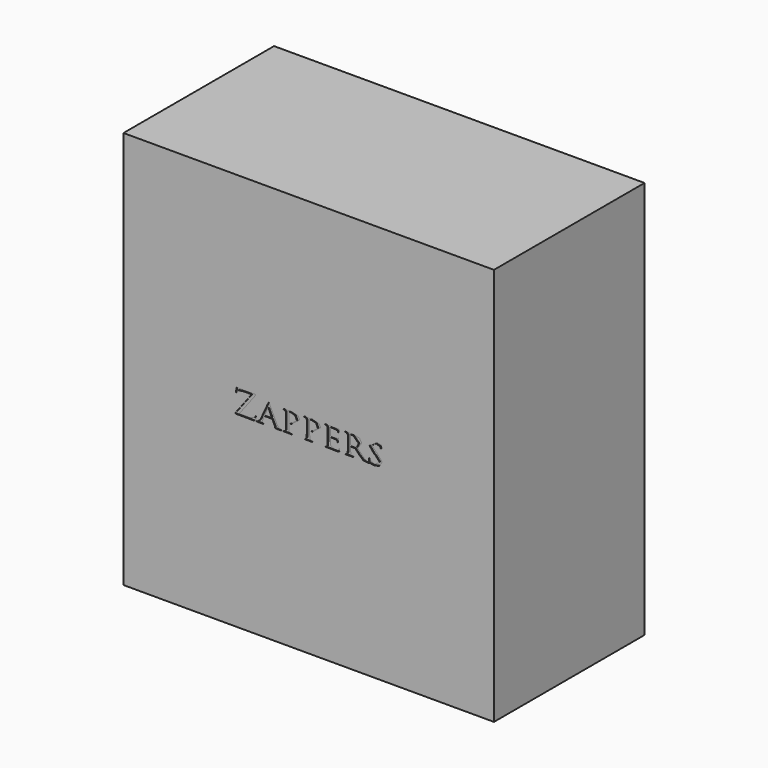
from build123d import *

# Parameters (mm, degrees)
F0_W     = 249.9915063381
F0_H     = 268.5476541519
F1_DEPTH = 63.5
F3_DEPTH = 0.508


with BuildPart() as f1:
    # F0 (on Front) → F1 (new body, symmetric)
    with BuildSketch(Plane.XZ):
        Rectangle(F0_W, F0_H)
    extrude(amount=F1_DEPTH, both=True)

    # F2 (on face) → F3 (cut)
    with BuildSketch(Plane.XZ.offset(63.5)):
        Polygon((-36.2409232, -5.9713876), (-40.137842, -7.0018148), (-46.8468202, -7.0018148), (-35.7970328, 7.5061826), (-35.6983284, 7.7583538), (-36.1914948, 7.9266542), (-43.073066, 7.9266542), (-47.3646246, 7.989697), (-48.4005636, 8.1369662), (-48.6472484, 7.737348), (-49.1405672, 4.9409604), (-48.9926122, 4.6676056), (-48.7213148, 5.0460402), (-47.315374, 6.7070986), (-43.7636412, 7.1275702), (-38.4113532, 7.1275702), (-49.2392716, -7.0858634), (-49.584483, -7.6746354), (-49.1405672, -7.842758), (-36.5614966, -7.9478378), (-35.8216708, -7.4011028), (-35.3283266, -4.9833276), (-35.5255576, -4.4996354), (-35.7476044, -4.8362108), align=None)
        Polygon((-26.943812, 5.950204), (-27.4617942, 5.2563522), (-32.5674228, -5.9293506), (-34.3924636, -7.5695556), (-35.0337628, -7.6115926), (-35.2311716, -7.758684), (-34.8118938, -7.9058008), (-32.6166988, -7.842758), (-30.6681378, -7.9058008), (-30.3475898, -7.758684), (-30.5694334, -7.6115926), (-30.7668422, -7.6115926), (-31.5068458, -7.1279004), (-31.18612, -5.9293506), (-29.95295, -3.0699202), (-29.7309032, -2.9228034), (-24.723979, -2.9228034), (-24.526748, -3.0278832), (-22.578187, -7.1279004), (-22.775418, -7.6115926), (-22.9233984, -7.7376782), (-22.1589346, -7.8637638), (-18.7303664, -7.9058008), (-18.2372, -7.758684), (-18.5084974, -7.6115926), (-19.3716656, -7.5065128), (-21.2215222, -5.5510684), (-26.4258552, 5.2983892), align=None)
        Polygon((-24.9706384, -2.0604988), (-25.0445524, -2.18694), (-29.4349678, -2.18694), (-29.5088818, -2.0604988), (-27.4864322, 2.8384246), (-27.1164304, 2.8384246), align=None, mode=Mode.SUBTRACT)
        Polygon((-15.4268678, 4.2891456), (-15.3776172, 0.4415028), (-15.3776172, -2.7123136), (-15.5009342, -6.5811654), (-16.068167, -7.5275186), (-16.7341042, -7.6115926), (-16.906875, -7.758684), (-16.5615112, -7.9058008), (-14.4157446, -7.842758), (-11.702542, -7.9058008), (-11.3571782, -7.758684), (-11.529949, -7.6115926), (-12.4918216, -7.5275186), (-13.3551676, -6.5811654), (-13.4536942, -2.7123136), (-13.4536942, 4.5625258), (-13.2811012, 4.8989234), (-12.0725438, 5.0250344), (-9.1374976, 4.16306), (-7.9041498, 1.4507464), (-11.9245888, -1.4297152), (-12.4918216, -1.6191992), (-12.2697748, -1.7873218), (-11.6532914, -1.8083276), (-6.0543186, 2.4599646), (-7.1395082, 4.6045374), (-11.2832896, 5.613781), (-14.3662908, 5.5717694), (-16.8820846, 5.613781), (-17.2274484, 5.4666896), (-17.0548554, 5.319395), (-16.3148518, 5.2773834), align=None)
        Polygon((-1.3198856, 4.2891456), (-1.270635, 0.4415028), (-1.270635, -2.7123136), (-1.393952, -6.5811654), (-1.9611848, -7.5275186), (-2.627122, -7.6115926), (-2.7999182, -7.758684), (-2.454529, -7.9058008), (-0.3087624, -7.842758), (2.4045926, -7.9058008), (2.749804, -7.758684), (2.577211, -7.6115926), (1.6153384, -7.5275186), (0.7519924, -6.5811654), (0.6534658, -2.7123136), (0.6534658, 4.5625258), (0.8260588, 4.8989234), (2.0345908, 5.0250344), (4.9694846, 4.16306), (6.202807, 1.4507464), (2.1823934, -1.4297152), (1.6153384, -1.6191992), (1.837182, -1.7873218), (2.4538686, -1.8083276), (8.0524858, 2.4599646), (6.9672962, 4.6045374), (2.8238704, 5.613781), (-0.2591562, 5.5717694), (-2.7751024, 5.613781), (-3.1204662, 5.4666896), (-2.9478732, 5.319395), (-2.2078696, 5.2773834), align=None)
        Polygon((12.7874268, 4.2891456), (12.8367028, 0.4415028), (12.8367028, -2.7123136), (12.7133604, -6.5811654), (12.1459498, -7.5275186), (11.4800126, -7.6115926), (11.3074196, -7.758684), (11.6529612, -7.9058008), (12.9107692, -7.8637638), (13.847826, -7.842758), (15.6485844, -7.884795), (19.4223386, -7.9478378), (20.6308706, -7.4851514), (20.926806, -5.761228), (20.7786732, -5.4876954), (20.5568042, -5.761228), (19.5701412, -7.0018148), (17.3997112, -7.1909432), (14.8100542, -5.761228), (14.8100542, -2.7123136), (14.8100542, -1.2195556), (14.9578314, -1.09347), (18.2382668, -1.1775186), (19.3482722, -1.7242536), (19.4467988, -2.3130256), (19.5949316, -2.4811482), (19.7919848, -2.144903), (19.890867, -0.9883902), (20.06346, -0.0001778), (19.940143, 0.1471168), (19.6193918, -0.0840486), (18.5589926, -0.3365754), (14.933041, -0.3786124), (14.8100542, -0.189484), (14.8100542, 4.6676056), (14.933041, 4.8569118), (18.0656484, 4.793869), (19.6193918, 4.2471086), (19.7427342, 3.616325), (19.9153272, 3.3849818), (20.112736, 3.574288), (20.2360784, 4.7516542), (20.4086714, 5.5927752), (20.3101448, 5.7608978), (20.0142094, 5.6768238), (19.027521, 5.5717694), (13.847826, 5.5717694), (11.33221, 5.613781), (10.987024, 5.4666896), (11.159617, 5.319395), (11.8992904, 5.2773834), align=None)
        Polygon((26.3762744, 4.2891456), (26.425525, 0.4415028), (26.425525, -2.7123136), (26.3021826, -6.5811654), (25.7347974, -7.5275186), (25.0688602, -7.6115926), (24.8962418, -7.758684), (25.2417834, -7.9058008), (27.3873976, -7.842758), (30.0511464, -7.9058008), (30.396688, -7.758684), (30.2237394, -7.6115926), (29.2618668, -7.5275186), (28.3988764, -6.5811654), (28.2999942, -2.7333448), (28.2999942, -2.3130256), (28.4481524, -2.1659342), (31.2104278, -2.2079458), (31.5063632, -2.3130256), (33.8497164, -4.9202848), (36.8094006, -7.5485498), (39.127938, -7.9058008), (40.4842726, -7.9058008), (41.0024072, -7.758684), (40.8050238, -7.6115926), (40.0405346, -7.5485498), (37.6234706, -6.307963), (33.084897, -1.682242), (35.7486458, 2.3967694), (34.2441784, 4.8358806), (30.1992792, 5.613781), (27.4862798, 5.5717694), (24.9210576, 5.613781), (24.5758462, 5.4666896), (24.7484646, 5.319395), (25.4881126, 5.2773834), align=None)
        Polygon((28.4481524, -1.3036296), (28.2999942, -1.0724642), (28.2999942, 4.6676056), (28.4726126, 4.8779176), (30.0266862, 4.9829974), (33.77565, 1.4717522), (32.468566, -1.2615926), (30.840426, -1.5771622), align=None, mode=Mode.SUBTRACT)
        Polygon((40.6310338, -6.9807836), (40.951785, -7.6536296), (44.1088526, -8.1369662), (47.561881, -7.5065128), (49.584483, -4.4575984), (46.0325978, -0.147447), (45.4162668, 0.2101596), (42.6043852, 3.2378904), (45.490003, 5.1723036), (48.3018846, 4.2891456), (48.6226358, 3.4059876), (48.819689, 3.1748222), (48.9926376, 3.574288), (49.0911642, 5.4666896), (48.8692952, 5.5927752), (48.1044758, 5.6768238), (45.8600048, 5.8871612), (41.0503116, 2.5230328), (44.1581286, -1.3036296), (45.1447916, -1.9344132), (47.8826068, -5.0463704), (44.6270126, -7.4221086), (41.1984444, -5.6561482), (41.124378, -5.0043334), (40.9269692, -4.7938436), (40.7543762, -5.0884074), align=None)
    extrude(amount=-F3_DEPTH, mode=Mode.SUBTRACT)


solid = f1.part
